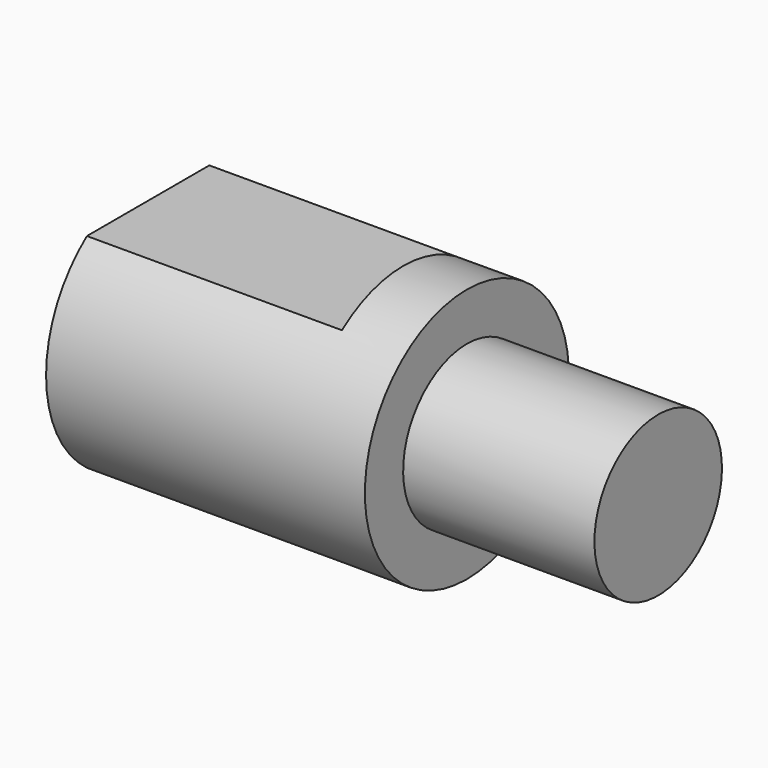
from build123d import *

# Parameters (mm, degrees)
F3_DEPTH = 25.4


with BuildPart() as f1:
    # F0 (on Front) → F1 (revolve)
    with BuildSketch(Plane.XZ):
        Polygon((31.75, 12.7), (0, 12.7), (0, 0), (50.8, 0), (50.8, 7.9375), (31.75, 7.9375), align=None)
    revolve(axis=Axis((24.74322, 0, 0), (1, 0, 0)))

    # F2 (on face) → F3 (cut)
    with BuildSketch(Plane(origin=(0, 0, 0), x_dir=(0, -1, 0), z_dir=(-1, 0, 0))):
        with BuildLine():
            ThreePointArc((7.62, 10.16), (0, 12.7), (-7.62, 10.16))
            Line((-7.62, 10.16), (7.62, 10.16))
        make_face()
        with BuildLine():
            Line((7.62, -10.16), (-7.62, -10.16))
            ThreePointArc((-7.62, -10.16), (0, -12.7), (7.62, -10.16))
        make_face()
    extrude(amount=-F3_DEPTH, mode=Mode.SUBTRACT)


solid = f1.part
